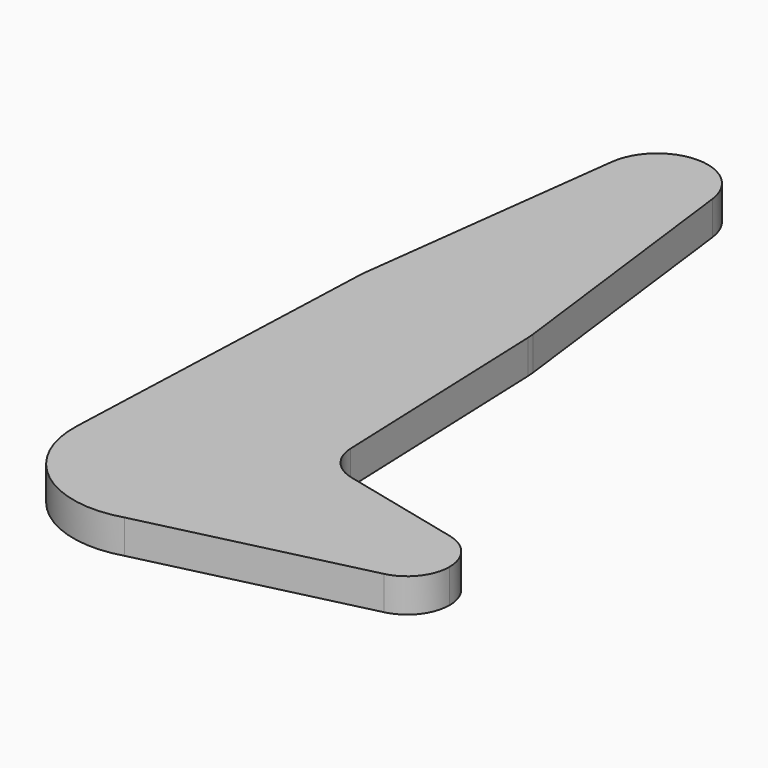
from build123d import *

# Parameters (mm, degrees)
F1_DEPTH = 0.25


with BuildPart() as f1:
    # F0 (on Top) → F1 (new body)
    with BuildSketch(Plane.XY):
        with BuildLine():
            Line((-0.372059, 4.546875), (-0.620098, 2.578125))
            ThreePointArc((-0.620098, 2.578125), (0, 3.125), (0.620098, 2.578125))
            Line((0.620098, 2.578125), (0.372059, 4.546875))
            ThreePointArc((0.372059, 4.546875), (0.374264, 4.523484), (0.375, 4.5))
            ThreePointArc((0.375, 4.5), (-0.023484, 4.125736), (-0.372059, 4.546875))
        make_face()
        with BuildLine():
            ThreePointArc((-0.72042, 0.027671), (0.013838, 0.720819), (0.720951, 0))
            ThreePointArc((0.720951, 0), (0.579399, -0.429031), (0.210328, -0.689589))
            Line((0.210328, -0.689589), (1.822696, -0.303927))
            ThreePointArc((1.822696, -0.303927), (1.4375, 0.000124), (1.822938, 0.303869))
            Line((1.822938, 0.303869), (0.920488, 0.520484))
            ThreePointArc((0.920488, 0.520484), (0.758526, 0.621977), (0.69073, 0.800684))
            Line((0.69073, 0.800684), (0.624539, 2.523988))
            ThreePointArc((0.624539, 2.523988), (0.624885, 2.511996), (0.625, 2.5))
            ThreePointArc((0.625, 2.5), (-0.011996, 1.875115), (-0.624539, 2.523988))
            Line((-0.624539, 2.523988), (-0.72042, 0.027671))
        make_face()
        with BuildLine():
            ThreePointArc((0.210328, -0.689589), (0.579399, -0.429031), (0.720951, 0))
            ThreePointArc((0.720951, 0), (0.013838, 0.720819), (-0.72042, 0.027671))
            ThreePointArc((-0.72042, 0.027671), (-0.440073, -0.571058), (0.210328, -0.689589))
        make_face()
        with BuildLine():
            ThreePointArc((0.372059, 4.546875), (0, 4.875), (-0.372059, 4.546875))
            ThreePointArc((-0.372059, 4.546875), (-0.023484, 4.125736), (0.375, 4.5))
            ThreePointArc((0.375, 4.5), (0.374264, 4.523484), (0.372059, 4.546875))
        make_face()
        with BuildLine():
            ThreePointArc((-0.620098, 2.578125), (-0.622907, 2.551105), (-0.624539, 2.523988))
            ThreePointArc((-0.624539, 2.523988), (-0.011996, 1.875115), (0.625, 2.5))
            ThreePointArc((0.625, 2.5), (0.624885, 2.511996), (0.624539, 2.523988))
            ThreePointArc((0.624539, 2.523988), (0.622907, 2.551105), (0.620098, 2.578125))
            ThreePointArc((0.620098, 2.578125), (0, 3.125), (-0.620098, 2.578125))
        make_face()
        with BuildLine():
            ThreePointArc((1.822938, 0.303869), (1.4375, 0.000124), (1.822696, -0.303927))
            ThreePointArc((1.822696, -0.303927), (1.99533, -0.19357), (2.0625, 0))
            ThreePointArc((2.0625, 0), (1.995407, 0.193472), (1.822938, 0.303869))
        make_face()
    extrude(amount=F1_DEPTH)


solid = f1.part
